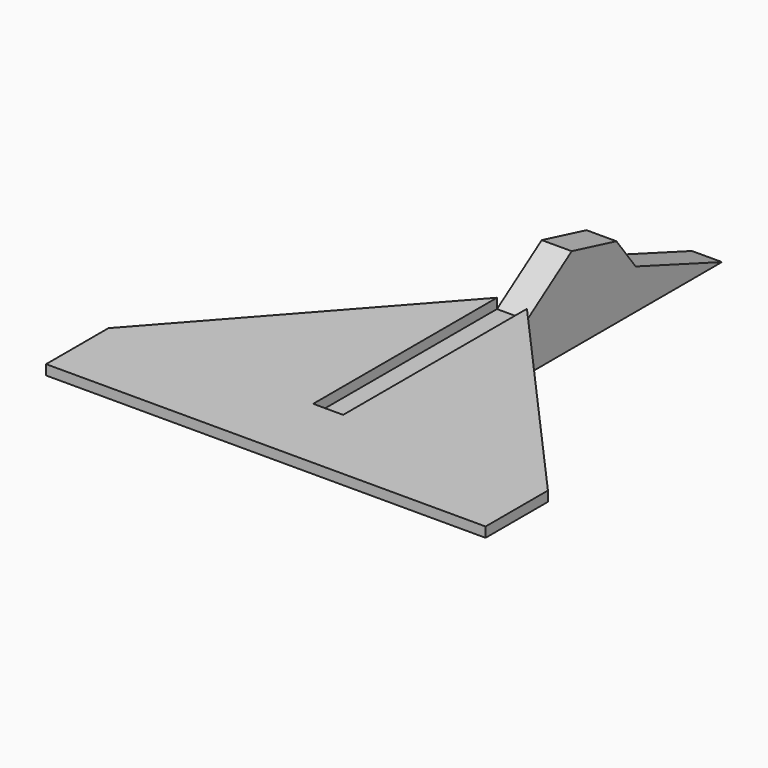
from build123d import *

# Parameters (mm, degrees)
F1_DEPTH = 19.05
F2_DEPTH = 19.05
F4_DEPTH = 6.35


with BuildPart() as f1:
    # F0 (on Right) → F1 (new body)
    with BuildSketch(Plane.YZ):
        Polygon((-237.752856, 30.48), (-237.752856, 0), (63.237144, 0), (-5.342856, 25.4), (-20.582856, 45.72), (-56.142856, 54.61), (-91.702856, 30.48), align=None)
    extrude(amount=F1_DEPTH)


with BuildPart() as f2:
    # F0 (on Right) → F2 (new body)
    with BuildSketch(Plane.YZ):
        Polygon((-237.752856, 30.48), (-237.752856, 0), (63.237144, 0), (-5.342856, 25.4), (-20.582856, 45.72), (-56.142856, 54.61), (-91.702856, 30.48), align=None)
    extrude(amount=F2_DEPTH)


with BuildPart() as f4:
    # F3 (on face) → F4 (new body)
    with BuildSketch(Plane.XY.offset(30.48)):
        Polygon((-130.175, -287.282856), (149.225, -287.282856), (149.225, -237.752856), (19.05, -91.702856), (19.05, -237.752856), (0, -237.752856), (0, -91.702856), (-130.175, -237.752856), align=None)
    extrude(amount=F4_DEPTH)


solid = Compound([f1.part, f2.part, f4.part])
